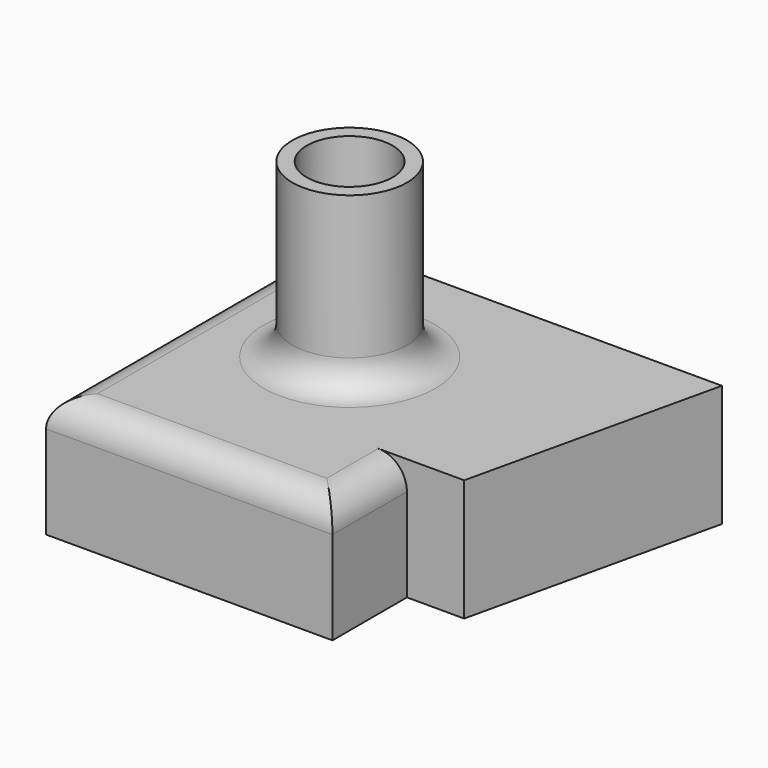
from build123d import *

# Parameters (mm, degrees)
F0_W     = 177.8
F0_H     = 152.4
F1_DEPTH = 53.975
F2_R     = 25.4
F3_DEPTH = 76.2
F4_R     = 19.05
F5_DEPTH = 63.5
F6_W     = 25.4
F6_H     = 41.275
F7_DEPTH = 60.29447
F9_DEPTH = 62.03363
F10_R    = 12.7


with BuildPart() as f1:
    # F0 (on Top) → F1 (new body)
    with BuildSketch(Plane.XY):
        with Locations((10.384991, 5.680025)):
            Rectangle(F0_W, F0_H)
    extrude(amount=F1_DEPTH)

    # F2 (on face) → F3 (join)
    with BuildSketch(Plane.XY.offset(53.975)):
        with Locations((-15.015009, 18.380025)):
            Circle(F2_R)
    extrude(amount=F3_DEPTH)

    # F4 (on face) → F5 (cut)
    with BuildSketch(Plane.XY.offset(130.175)):
        with Locations((-15.015009, 18.380025)):
            Circle(F4_R)
    extrude(amount=-F5_DEPTH, mode=Mode.SUBTRACT)

    # F6 (on face) → F7 (cut)
    with BuildSketch(Plane.XY.offset(53.975)):
        with Locations((61.184991, -49.882475)):
            Rectangle(F6_W, F6_H)
    extrude(amount=-F7_DEPTH, mode=Mode.SUBTRACT)

    # F8 (on face) → F9 (cut)
    with BuildSketch(Plane.XY.offset(53.975)):
        Polygon((99.284991, 81.880025), (73.884991, -29.244975), (73.884991, -70.519975), (99.284991, -70.519975), align=None)
    extrude(amount=-F9_DEPTH, mode=Mode.SUBTRACT)

    # F10
    f10_edges = [f1.edges().sort_by_distance(p)[0] for p in [
        (-40.415009, 18.380025, 53.975),
        (-15.015009, -70.519975, 53.975),
        (48.484991, -49.882475, 53.975),
        (-78.515009, 5.680025, 53.975),
    ]]
    fillet(f10_edges, radius=F10_R)


solid = f1.part
